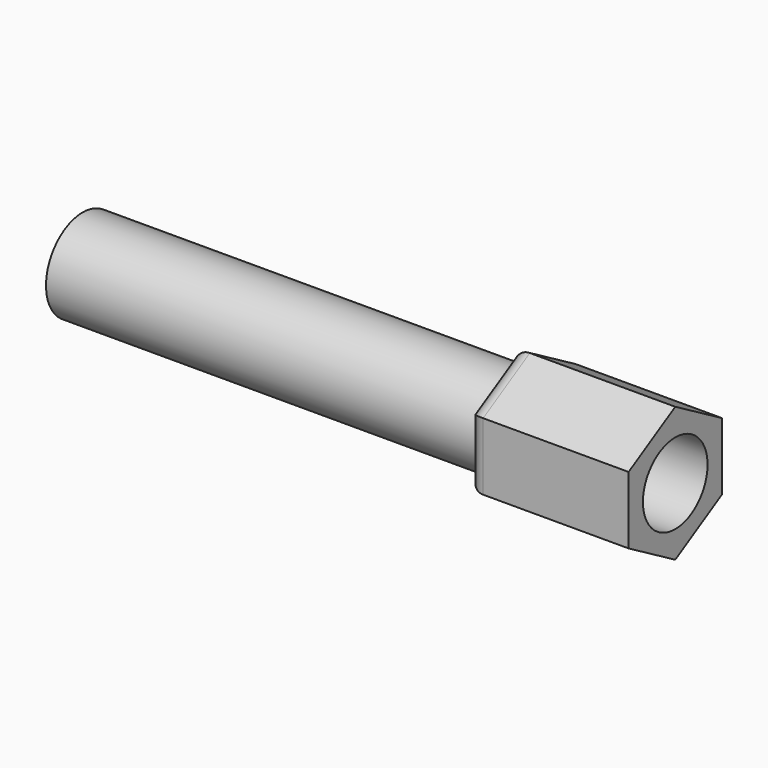
from build123d import *

# Parameters (mm, degrees)
SKETCH001_R             = 1.7
PAD001_DEPTH            = 16
SKETCH_R                = 1.5
PAD_DEPTH               = 3
FILLET_R                = 0.6
BODY002_PLACEMENT_ANGLE = 180


with BuildPart() as mid:
    # Sketch001 → Pad001 (new body)
    with BuildSketch(Plane.YZ):
        Circle(SKETCH001_R)
    extrude(amount=PAD001_DEPTH)


with BuildPart() as mid_1:
    # Body001 placement: moved
    add(mid.part.moved(Location((3, 0, 0))))


with BuildPart() as side2:
    # Sketch → Pad (new body, symmetric)
    with BuildSketch(Plane.YZ):
        Polygon((2.165064, 1.25), (0, 2.5), (-2.165064, 1.25), (-2.165064, -1.25), (0, -2.5), (2.165064, -1.25), align=None)
        Circle(SKETCH_R, mode=Mode.SUBTRACT)
    extrude(amount=PAD_DEPTH, both=True)

    # Fillet
    fillet_edges = [side2.edges().sort_by_distance(p)[0] for p in [
        (3, 1.082532, 1.875),
        (3, -1.082532, 1.875),
        (3, 2.165064, 0),
        (3, 1.082532, -1.875),
        (3, -1.082532, -1.875),
        (3, -2.165064, 0),
    ]]
    fillet(fillet_edges, radius=FILLET_R)


with BuildPart() as side2_1:
    # Body002 placement: moved
    add(side2.part.moved(Location((22, 0, 0))).rotate(Axis((22, 0, 0), (0, 0, 1)), BODY002_PLACEMENT_ANGLE))


solid = Compound([mid_1.part, side2_1.part])
